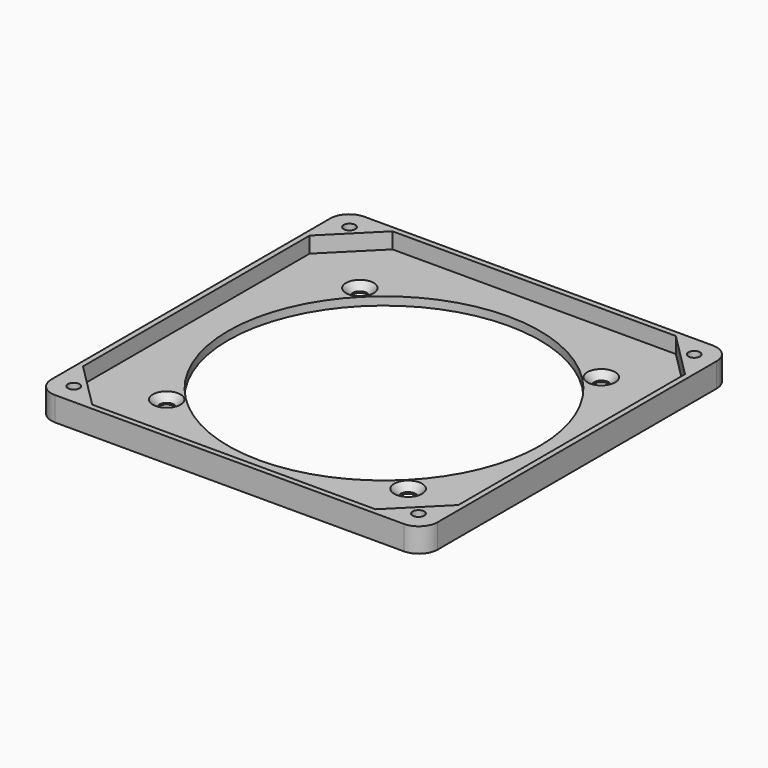
from build123d import *

# Parameters (mm, degrees)
F0_W           = 80
F0_H           = 80
F1_DEPTH       = 5
F0_R           = 32.25
F2_DEPTH       = 1.7
F4_D           = 3
F4_CSINK_D     = 5.75
F4_CSINK_ANGLE = 90
F6_D           = 2.4
F7_R           = 3.9


with BuildPart() as f1:
    # F0 (on Top) → F1 (new body)
    with BuildSketch(Plane.XY):
        Rectangle(F0_W, F0_H)
        Polygon((-38.86, 29.335), (-38.86, 38.86), (-29.335, 38.86), (29.335, 38.86), (38.86, 38.86), (38.86, 29.335), (38.86, -29.335), (38.86, -38.86), (29.335, -38.86), (-29.335, -38.86), (-38.86, -38.86), (-38.86, -29.335), align=None, mode=Mode.SUBTRACT)
        Polygon((-29.335, 38.86), (-38.86, 38.86), (-38.86, 29.335), align=None)
        Polygon((38.86, 38.86), (29.335, 38.86), (38.86, 29.335), align=None)
        Polygon((38.86, -38.86), (38.86, -29.335), (29.335, -38.86), align=None)
        Polygon((-29.335, -38.86), (-38.86, -29.335), (-38.86, -38.86), align=None)
    extrude(amount=F1_DEPTH)

    # F0 (on Top) → F2 (join)
    with BuildSketch(Plane.XY):
        Polygon((29.335, 38.86), (-29.335, 38.86), (-38.86, 29.335), (-38.86, -29.335), (-29.335, -38.86), (29.335, -38.86), (38.86, -29.335), (38.86, 29.335), align=None)
        Circle(F0_R, mode=Mode.SUBTRACT)
    extrude(amount=F2_DEPTH)

    # F4 (through all)
    with Locations(Plane.XY.offset(1.7)):
        with Locations((-25, 25), (25, 25), (25, -25), (-25, -25)):
            CounterSinkHole(F4_D / 2, F4_CSINK_D / 2, counter_sink_angle=F4_CSINK_ANGLE)

    # F6 (through all)
    with Locations(Plane.XY.offset(5)):
        with Locations((-35.685, 35.685), (35.685, 35.685), (35.685, -35.685), (-35.685, -35.685)):
            Hole(F6_D / 2)

    # F7
    f7_edges = [f1.edges().sort_by_distance(p)[0] for p in [
        (-40, -40, 2.5),
        (40, -40, 2.5),
        (40, 40, 2.5),
        (-40, 40, 2.5),
    ]]
    fillet(f7_edges, radius=F7_R)


solid = f1.part
